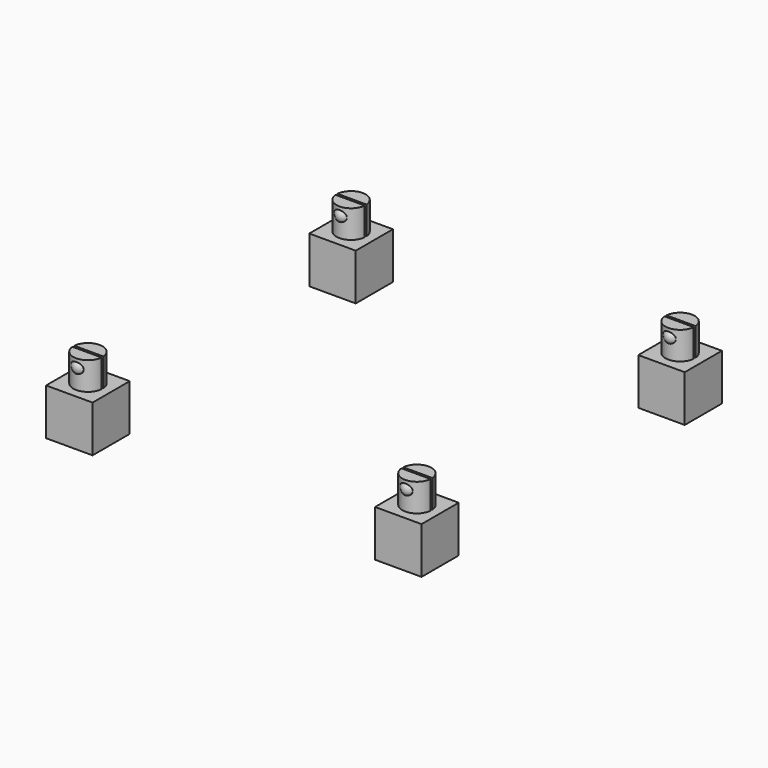
from build123d import *

# Parameters (mm, degrees)
BOX017_W                 = 5
BOX017_H                 = 0.25
BOX017_DEPTH             = 3
CYLINDER004_R            = 1.57
CYLINDER004_DEPTH        = 3
BOX016_W                 = 5
BOX016_H                 = 5
BOX016_DEPTH             = 5
ARRAY001_X_COUNT         = 2
ARRAY001_X_PITCH         = 35.4
ARRAY001_Y_COUNT         = 2
ARRAY001_Y_PITCH         = 35.4
ARRAY001_PLACEMENT_ANGLE = 180


with BuildPart() as sphere:
    # Sphere → Sphere (revolve)
    with BuildSketch(Plane(origin=(0, 1, 4.1), x_dir=(1, 0, 0), z_dir=(0, -1, 0))):
        with BuildLine():
            ThreePointArc((0, -0.8), (0.8, 0), (0, 0.8))
            Line((0, 0.8), (0, -0.8))
        make_face()
    revolve(axis=Axis((0, 1, 4.1), (0, 0, 1)))


with BuildPart() as sphere001:
    # Sphere001 → Sphere001 (revolve)
    with BuildSketch(Plane(origin=(0, -1, 4.1), x_dir=(1, 0, 0), z_dir=(0, -1, 0))):
        with BuildLine():
            ThreePointArc((0, -0.8), (0.8, 0), (0, 0.8))
            Line((0, 0.8), (0, -0.8))
        make_face()
    revolve(axis=Axis((0, -1, 4.1), (0, 0, 1)))


with BuildPart() as cube016:
    # Box017 → Box017 (new body)
    with BuildSketch(Plane(origin=(-2.5, -0.125, 2), x_dir=(1, 0, 0), z_dir=(0, 0, 1))):
        with Locations((2.5, 0.125)):
            Rectangle(BOX017_W, BOX017_H)
    extrude(amount=BOX017_DEPTH)


with BuildPart() as cut011:
    # Cylinder004 → Cylinder004 (new body)
    with BuildSketch(Plane.XY.offset(2)):
        Circle(CYLINDER004_R)
    extrude(amount=CYLINDER004_DEPTH)

    # Cut011: cut Cube016
    add(cube016.part, mode=Mode.SUBTRACT)


with BuildPart() as pcbholder:
    # Box016 → Box016 (new body)
    with BuildSketch(Plane(origin=(-2.5, -2.5, -3), x_dir=(1, 0, 0), z_dir=(0, 0, 1))):
        with Locations((2.5, 2.5)):
            Rectangle(BOX016_W, BOX016_H)
    extrude(amount=BOX016_DEPTH)

    # Fusion006: union Sphere, Sphere001, Cut011
    add(sphere.part)
    add(sphere001.part)
    add(cut011.part)

    # Array001 X: PCBholder ×2


with BuildPart() as pcbholder_1:
    add(pcbholder.part)
    with Locations(*[(i * ARRAY001_X_PITCH, 0, 0) for i in range(1, ARRAY001_X_COUNT)]):
        add(pcbholder.part)

    # Array001 Y: PCBholder ×2


with BuildPart() as pcbholder_2:
    add(pcbholder_1.part)
    with Locations(*[(0, i * ARRAY001_Y_PITCH, 0) for i in range(1, ARRAY001_Y_COUNT)]):
        add(pcbholder_1.part)


with BuildPart() as pcbholder_3:
    # Array001 placement: moved
    add(pcbholder_2.part.moved(Location((33.5, 31.5, 0))).rotate(Axis((33.5, 31.5, 0), (0, 0, 1)), ARRAY001_PLACEMENT_ANGLE))


solid = pcbholder_3.part
